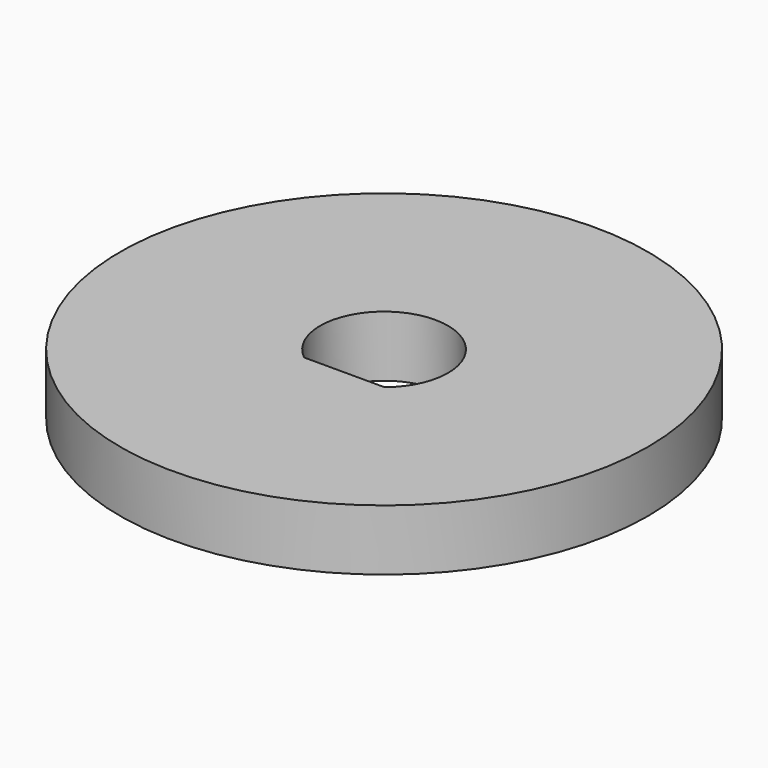
from build123d import *

# Parameters (mm, degrees)
F0_R     = 13
F1_DEPTH = 3


with BuildPart() as f1:
    # F0 (on Top) → F1 (new body)
    with BuildSketch(Plane.XY):
        Circle(F0_R)
        with BuildLine():
            ThreePointArc((-1.979899, -2.45), (0, 3.15), (1.979899, -2.45))
            Line((1.979899, -2.45), (-1.979899, -2.45))
        make_face(mode=Mode.SUBTRACT)
    extrude(amount=F1_DEPTH)


solid = f1.part
